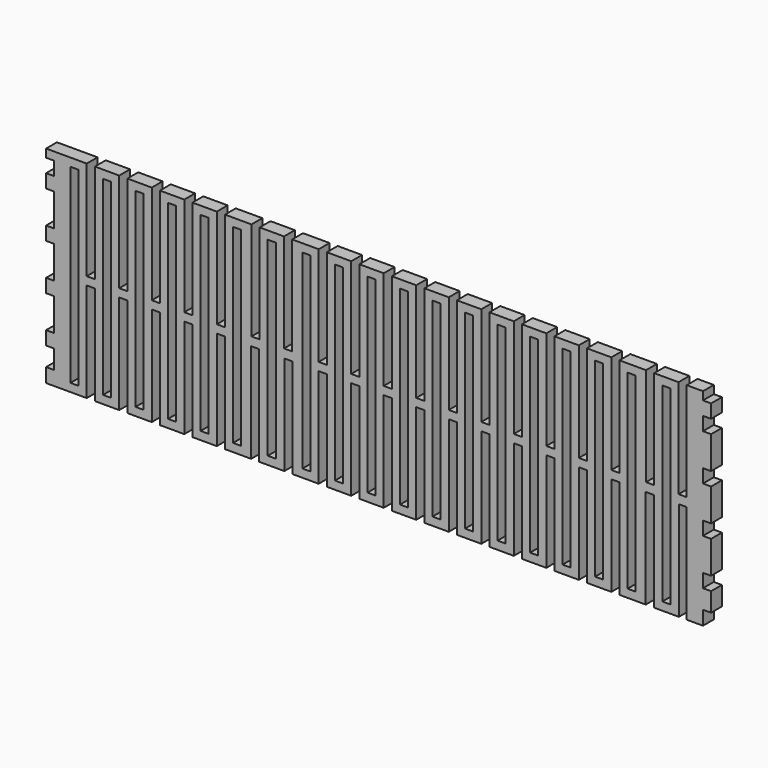
from build123d import *

# Parameters (mm, degrees)
F0_W     = 3
F0_H     = 70.2
F0_W_2   = 0.119232
F0_H_2   = 36.6
F1_DEPTH = 5


with BuildPart() as f1:
    # F0 (on Front) → F1 (new body)
    with BuildSketch(Plane.XZ):
        Polygon((0, 5.2), (0, 0), (15, 0), (15, 36.6), (18, 36.6), (18, 0), (27, 0), (27, 36.6), (30, 36.6), (30, 0), (39, 0), (39, 3), (39, 36.6), (40.5, 36.6), (42, 36.6), (42, 3), (42, 0), (51, 0), (51, 36.6), (54, 36.6), (54, 0), (63, 0), (63, 36.6), (66, 36.6), (66, 0), (75.681388, 0), (75.681388, 36.6), (78.662232, 36.6), (78.662232, 0), (87.939008, 0), (87.939008, 36.6), (90.919852, 36.6), (90.919852, 0), (100.60124, 0), (100.60124, 36.6), (103.60124, 36.6), (103.60124, 0), (112.60124, 0), (112.60124, 36.6), (115.60124, 36.6), (115.60124, 0), (124.60124, 0), (124.60124, 3), (124.60124, 36.6), (126.10124, 36.6), (127.60124, 36.6), (127.60124, 3), (127.60124, 0), (136.60124, 0), (136.60124, 36.6), (139.60124, 36.6), (139.60124, 0), (148.60124, 0), (148.60124, 36.6), (151.60124, 36.6), (151.60124, 0), (160.60124, 0), (160.60124, 36.6), (163.60124, 36.6), (163.60124, 0), (172.60124, 0), (172.60124, 36.6), (175.60124, 36.6), (175.60124, 0), (184.60124, 0), (184.60124, 3), (184.60124, 36.6), (186.10124, 36.6), (187.60124, 36.6), (187.60124, 3), (187.60124, 0), (196.60124, 0), (196.60124, 36.6), (199.60124, 36.6), (199.60124, 0), (208.60124, 0), (208.60124, 36.6), (211.60124, 36.6), (211.60124, 0), (221.282628, 0), (221.282628, 36.6), (224.263472, 36.6), (224.263472, 0), (233.540249, 0), (233.540249, 36.6), (236.40186, 36.6), (236.521092, 36.6), (236.521092, 0), (239.40186, 0), (242.40186, 0), (242.40186, 5.2), (245.40186, 5.2), (245.40186, 12.2), (242.40186, 12.2), (242.40186, 17.2), (245.40186, 17.2), (245.40186, 29.2), (242.40186, 29.2), (242.40186, 34.2), (245.40186, 34.2), (245.40186, 46.2), (242.40186, 46.2), (242.40186, 51.2), (245.40186, 51.2), (245.40186, 63.2), (242.40186, 63.2), (242.40186, 68.2), (245.40186, 68.2), (245.40186, 73.2), (242.40186, 73.2), (242.40186, 76.2), (239.40186, 76.2), (236.40186, 76.2), (236.40186, 39.810318), (233.40186, 39.810318), (233.40186, 76.2), (224.40186, 76.2), (224.40186, 39.810318), (221.40186, 39.810318), (221.40186, 76.2), (211.60124, 76.2), (211.60124, 39.6), (208.60124, 39.6), (208.60124, 76.2), (199.60124, 76.2), (199.60124, 39.6), (196.60124, 39.6), (196.60124, 76.2), (187.60124, 76.2), (187.60124, 39.6), (186.10124, 39.6), (184.60124, 39.6), (184.60124, 76.2), (175.60124, 76.2), (175.60124, 39.6), (172.60124, 39.6), (172.60124, 76.2), (163.60124, 76.2), (163.60124, 39.6), (160.60124, 39.6), (160.60124, 76.2), (151.60124, 76.2), (151.60124, 39.6), (148.60124, 39.6), (148.60124, 76.2), (139.60124, 76.2), (139.60124, 39.6), (136.60124, 39.6), (136.60124, 76.2), (127.60124, 76.2), (127.60124, 39.6), (126.10124, 39.6), (124.60124, 39.6), (124.60124, 76.2), (115.60124, 76.2), (115.60124, 39.6), (112.60124, 39.6), (112.60124, 76.2), (103.60124, 76.2), (103.60124, 39.6), (100.60124, 39.6), (100.60124, 76.2), (90.80062, 76.2), (90.80062, 39.810318), (87.80062, 39.810318), (87.80062, 76.2), (78.80062, 76.2), (78.80062, 39.810318), (75.80062, 39.810318), (75.80062, 76.2), (66, 76.2), (66, 39.6), (63, 39.6), (63, 76.2), (54, 76.2), (54, 39.6), (51, 39.6), (51, 76.2), (42, 76.2), (42, 39.6), (40.5, 39.6), (39, 39.6), (39, 76.2), (30, 76.2), (30, 39.6), (27, 39.6), (27, 76.2), (18, 76.2), (18, 39.6), (15, 39.6), (15, 76.2), (0, 76.2), (0, 73.2), (3, 73.2), (3, 68.2), (0, 68.2), (0, 63.2), (3, 63.2), (3, 51.2), (0, 51.2), (0, 46.2), (3, 46.2), (3, 38.1), (3, 34.2), (0, 34.2), (0, 29.2), (3, 29.2), (3, 17.2), (0, 17.2), (0, 12.2), (3, 12.2), (3, 5.2), align=None)
        with Locations((10.5, 38.1)):
            Rectangle(F0_W, F0_H, mode=Mode.SUBTRACT)
        Polygon((22.5, 3), (21, 3), (21, 73.2), (22.5, 73.2), (24, 73.2), (24, 3), align=None, mode=Mode.SUBTRACT)
        with Locations((34.5, 38.1)):
            Rectangle(F0_W, F0_H, mode=Mode.SUBTRACT)
        with Locations((46.5, 38.1)):
            Rectangle(F0_W, F0_H, mode=Mode.SUBTRACT)
        Polygon((58.5, 3), (57, 3), (57, 73.2), (58.5, 73.2), (60, 73.2), (60, 3), align=None, mode=Mode.SUBTRACT)
        with Locations((70.5, 38.1)):
            Rectangle(F0_W, F0_H, mode=Mode.SUBTRACT)
        Polygon((81.80062, 3), (81.80062, 73.2), (83.30062, 73.2), (84.80062, 73.2), (84.80062, 3), (83.30062, 3), align=None, mode=Mode.SUBTRACT)
        with Locations((96.10124, 38.1)):
            Rectangle(F0_W, F0_H, mode=Mode.SUBTRACT)
        Polygon((108.10124, 3), (106.60124, 3), (106.60124, 73.2), (108.10124, 73.2), (109.60124, 73.2), (109.60124, 3), align=None, mode=Mode.SUBTRACT)
        with Locations((120.10124, 38.1)):
            Rectangle(F0_W, F0_H, mode=Mode.SUBTRACT)
        with Locations((132.10124, 38.1)):
            Rectangle(F0_W, F0_H, mode=Mode.SUBTRACT)
        Polygon((144.10124, 3), (142.60124, 3), (142.60124, 73.2), (144.10124, 73.2), (145.60124, 73.2), (145.60124, 3), align=None, mode=Mode.SUBTRACT)
        Polygon((154.60124, 73.2), (156.10124, 73.2), (157.60124, 73.2), (157.60124, 3), (156.10124, 3), (154.60124, 3), align=None, mode=Mode.SUBTRACT)
        Polygon((168.10124, 3), (166.60124, 3), (166.60124, 73.2), (169.60124, 73.2), (169.60124, 3), align=None, mode=Mode.SUBTRACT)
        with Locations((180.10124, 38.1)):
            Rectangle(F0_W, F0_H, mode=Mode.SUBTRACT)
        with Locations((192.10124, 38.1)):
            Rectangle(F0_W, F0_H, mode=Mode.SUBTRACT)
        Polygon((204.10124, 3), (202.60124, 3), (202.60124, 73.2), (205.60124, 73.2), (205.60124, 3), align=None, mode=Mode.SUBTRACT)
        with Locations((216.10124, 38.1)):
            Rectangle(F0_W, F0_H, mode=Mode.SUBTRACT)
        with Locations((228.90186, 38.1)):
            Rectangle(F0_W, F0_H, mode=Mode.SUBTRACT)
        with Locations((236.461476, 18.3)):
            Rectangle(F0_W_2, F0_H_2)
    extrude(amount=F1_DEPTH)


solid = f1.part
